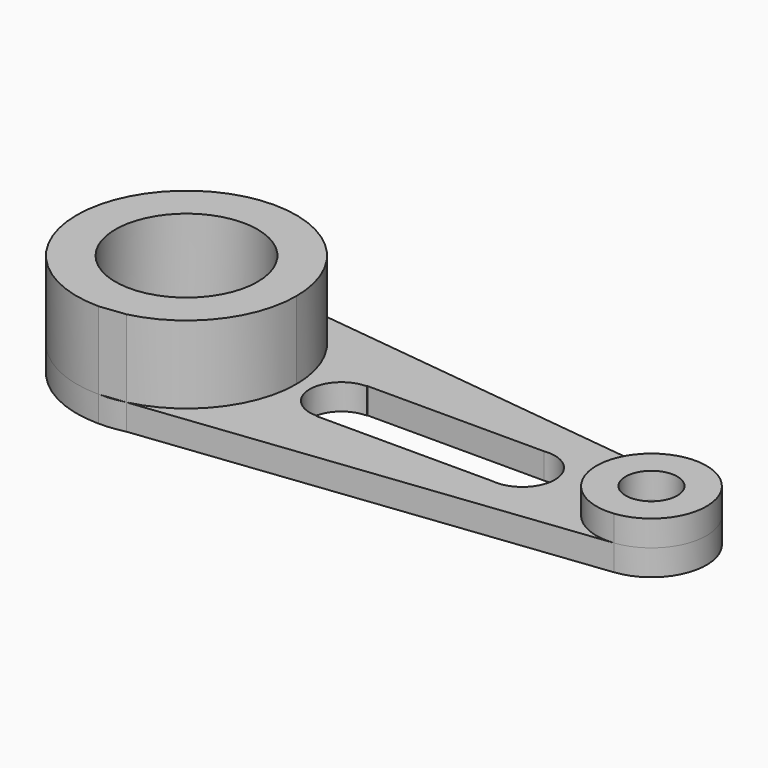
from build123d import *

# Parameters (mm, degrees)
F0_R     = 12.7
F1_DEPTH = 25.4
F0_R_2   = 34.925
F2_DEPTH = 50.8
F3_DEPTH = 12.7


with BuildPart() as f1:
    # F0 (on Top) → F1 (new body)
    with BuildSketch(Plane.XY):
        with BuildLine():
            Line((131.8974815489, 26.6268490786), (128.7264656024, 27.0036099847))
            ThreePointArc((128.7264656024, 27.0036099847), (100.0860287509, -0.7741034596), (130.2687059941, -26.8678188269))
            ThreePointArc((130.2687059941, -26.8678188269), (147.3345040916, -17.9825181836), (154.1769504378, 0))
            ThreePointArc((154.1769504378, 0), (147.8724114503, 17.3591749935), (131.8974815489, 26.6268490786))
        make_face()
        with Locations((127.1259504378, 0)):
            Circle(F0_R, mode=Mode.SUBTRACT)
    extrude(amount=F1_DEPTH)


with BuildPart() as f2:
    # F0 (on Top) → F2 (new body)
    with BuildSketch(Plane.XY):
        with BuildLine():
            ThreePointArc((-89.0174641021, -52.5179407791), (-59.1323158636, -33.4735449631), (-47.4990495622, 0))
            ThreePointArc((-47.4990495622, 0), (-61.119224987, 35.8439500962), (-95.1058585849, 53.5980108649))
            ThreePointArc((-95.1058585849, 53.5980108649), (-155.3547198505, 3.1896699332), (-101.4740495622, -53.975))
            Line((-101.4740495622, -53.975), (-89.0174641021, -52.5179407791))
        make_face()
        with Locations((-101.4740495622, 0)):
            Circle(F0_R_2, mode=Mode.SUBTRACT)
    extrude(amount=F2_DEPTH)


with BuildPart() as f3:
    # F0 (on Top) → F3 (new body)
    with BuildSketch(Plane.XY):
        with BuildLine():
            ThreePointArc((-89.0174641021, -52.5179407791), (-59.1323158636, -33.4735449631), (-47.4990495622, 0))
            ThreePointArc((-47.4990495622, 0), (-61.119224987, 35.8439500962), (-95.1058585849, 53.5980108649))
            ThreePointArc((-95.1058585849, 53.5980108649), (-155.3547198505, 3.1896699332), (-101.4740495622, -53.975))
            Line((-101.4740495622, -53.975), (-89.0174641021, -52.5179407791))
        make_face()
        with Locations((-101.4740495622, 0)):
            Circle(F0_R_2, mode=Mode.SUBTRACT)
        with BuildLine():
            ThreePointArc((-95.1058585849, 53.5980108649), (-61.119224987, 35.8439500962), (-47.4990495622, 0))
            ThreePointArc((-47.4990495622, 0), (-59.1323158636, -33.4735449631), (-89.0174641021, -52.5179407791))
            Line((-89.0174641021, -52.5179407791), (130.2687059941, -26.8678188269))
            ThreePointArc((130.2687059941, -26.8678188269), (100.0860287509, -0.7741034596), (128.7264656024, 27.0036099847))
            Line((128.7264656024, 27.0036099847), (-95.1058585849, 53.5980108649))
        make_face()
        with BuildLine():
            ThreePointArc((61.5001760411, 15.875), (79.6426461577, 0), (61.5001760411, -15.875))
            Line((61.5001760411, -15.875), (-25.2740495622, -15.875))
            Line((-25.2740495622, -15.875), (-25.2740495622, -15.5815852659))
            ThreePointArc((-25.2740495622, -15.5815852659), (-40.8556348281, 0), (-25.2740495622, 15.5815852659))
            Line((-25.2740495622, 15.5815852659), (-25.2740495622, 15.875))
            Line((-25.2740495622, 15.875), (61.5001760411, 15.875))
        make_face(mode=Mode.SUBTRACT)
        with BuildLine():
            ThreePointArc((-101.4740495622, -53.975), (-95.2032931705, -53.6094976592), (-89.0174641021, -52.5179407791))
            Line((-89.0174641021, -52.5179407791), (-101.4740495622, -53.975))
        make_face()
        with BuildLine():
            Line((131.8974815489, 26.6268490786), (128.7264656024, 27.0036099847))
            ThreePointArc((128.7264656024, 27.0036099847), (100.0860287509, -0.7741034596), (130.2687059941, -26.8678188269))
            ThreePointArc((130.2687059941, -26.8678188269), (147.3345040916, -17.9825181836), (154.1769504378, 0))
            ThreePointArc((154.1769504378, 0), (147.8724114503, 17.3591749935), (131.8974815489, 26.6268490786))
        make_face()
        with Locations((127.1259504378, 0)):
            Circle(F0_R, mode=Mode.SUBTRACT)
        with BuildLine():
            ThreePointArc((131.8974815489, 26.6268490786), (130.3175379158, 26.8620619158), (128.7264656024, 27.0036099847))
            Line((128.7264656024, 27.0036099847), (131.8974815489, 26.6268490786))
        make_face()
    extrude(amount=F3_DEPTH)


solid = Compound([f1.part, f2.part, f3.part])
